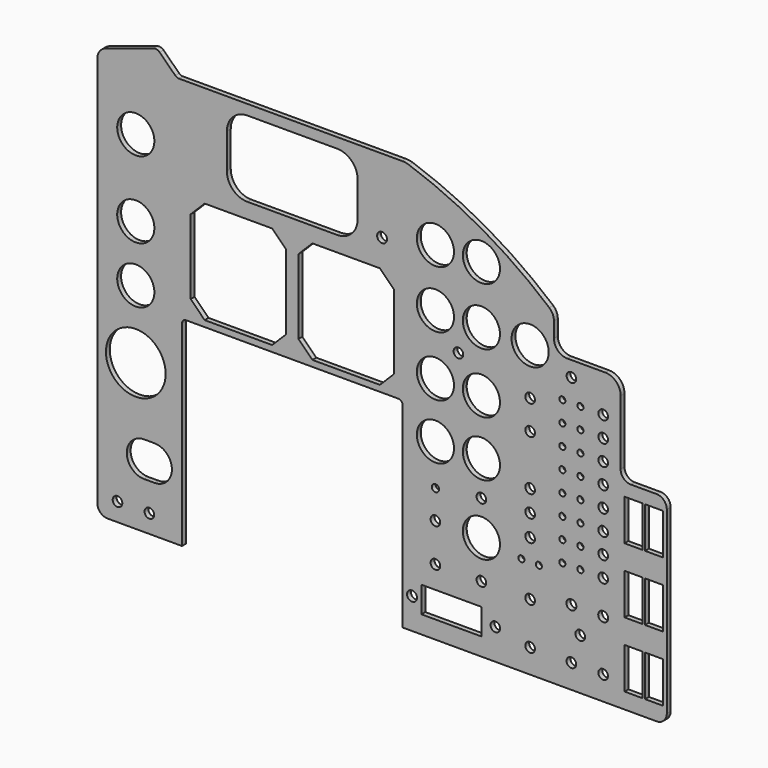
from build123d import *

# Parameters (mm, degrees)
F0_R     = 5.953125
F0_R_2   = 36.957
F0_R_3   = 22.987
F0_R_4   = 6.151563
F0_W     = 74.168
F0_H     = 32.258
F0_R_5   = 3.770313
F0_W_2   = 22.352
F0_H_2   = 50.8
F0_R_6   = 4.5
F1_DEPTH = 6


with BuildPart() as f1:
    # F0 (on Front) → F1 (new body)
    with BuildSketch(Plane.XZ):
        with BuildLine():
            ThreePointArc((-253.75755, -118.935383), (-250.037806, -127.915639), (-241.05755, -131.635383))
            Line((-241.05755, -131.635383), (-148.98255, -131.635383))
            Line((-148.98255, -131.635383), (-148.98255, 110.934617))
            ThreePointArc((-148.98255, 110.934617), (-147.494653, 114.52672), (-143.90255, 116.014617))
            Line((-143.90255, 116.014617), (118.98745, 116.014617))
            ThreePointArc((118.98745, 116.014617), (122.579552, 114.52672), (124.06745, 110.934617))
            Line((124.06745, 110.934617), (124.06745, -131.635383))
            Line((124.06745, -131.635383), (311.39245, -131.635383))
            Line((311.39245, -131.635383), (438.39245, -131.635383))
            ThreePointArc((438.39245, -131.635383), (447.372706, -127.915639), (451.09245, -118.935383))
            Line((451.09245, -118.935383), (451.09245, 103.314617))
            ThreePointArc((451.09245, 103.314617), (447.372706, 112.294873), (438.39245, 116.014617))
            Line((438.39245, 116.014617), (406.64245, 116.014617))
            ThreePointArc((406.64245, 116.014617), (397.662194, 119.734361), (393.94245, 128.714617))
            Line((393.94245, 128.714617), (393.94245, 208.724617))
            ThreePointArc((393.94245, 208.724617), (388.362834, 222.195001), (374.89245, 227.774617))
            Line((374.89245, 227.774617), (327.90245, 227.774617))
            ThreePointArc((327.90245, 227.774617), (316.228117, 232.610284), (311.39245, 244.284617))
            Line((311.39245, 244.284617), (311.39245, 255.714617))
            Line((311.39245, 255.714617), (-253.75755, 255.714617))
            Line((-253.75755, 255.714617), (-253.75755, -118.935383))
        make_face()
        with Locations((-228.73855, -109.029383)):
            Circle(F0_R, mode=Mode.SUBTRACT)
        with Locations((-189.36855, -109.029383)):
            Circle(F0_R, mode=Mode.SUBTRACT)
        with BuildLine():
            Line((-195.71855, -30.709753), (-183.01855, -30.709753))
            ThreePointArc((-183.01855, -30.709753), (-161.42855, -52.299753), (-183.01855, -73.889753))
            Line((-183.01855, -73.889753), (-195.71855, -73.889753))
            ThreePointArc((-195.71855, -73.889753), (-217.30855, -52.299753), (-195.71855, -30.709753))
        make_face(mode=Mode.SUBTRACT)
        with Locations((-206.13255, 49.339617)):
            Circle(F0_R_2, mode=Mode.SUBTRACT)
        with Locations((-206.13255, 133.667617)):
            Circle(F0_R_3, mode=Mode.SUBTRACT)
        with Locations((135.75145, -93.535383)):
            Circle(F0_R_4, mode=Mode.SUBTRACT)
        with Locations((184.51945, -93.535383)):
            Rectangle(F0_W, F0_H, mode=Mode.SUBTRACT)
        with Locations((238.87545, -93.535383)):
            Circle(F0_R, mode=Mode.SUBTRACT)
        with Locations((164.70745, -49.593383)):
            Circle(F0_R, mode=Mode.SUBTRACT)
        with Locations((164.70745, -2.095383)):
            Circle(F0_R, mode=Mode.SUBTRACT)
        with Locations((221.60345, -49.593383)):
            Circle(F0_R, mode=Mode.SUBTRACT)
        with Locations((221.60345, -2.095383)):
            Circle(F0_R_3, mode=Mode.SUBTRACT)
        with Locations((271.13345, -8.953383)):
            Circle(F0_R_5, mode=Mode.SUBTRACT)
        with Locations((281.92845, -101.917383)):
            Circle(F0_R, mode=Mode.SUBTRACT)
        with Locations((332.98245, -101.917383)):
            Circle(F0_R, mode=Mode.SUBTRACT)
        with Locations((343.90445, -68.643383)):
            Circle(F0_R, mode=Mode.SUBTRACT)
        with Locations((372.35245, -101.917383)):
            Circle(F0_R, mode=Mode.SUBTRACT)
        with Locations((409.94445, -86.677383)):
            Rectangle(F0_W_2, F0_H_2, mode=Mode.SUBTRACT)
        with Locations((435.34445, -86.677383)):
            Rectangle(F0_W_2, F0_H_2, mode=Mode.SUBTRACT)
        with Locations((281.92845, -49.593383)):
            Circle(F0_R, mode=Mode.SUBTRACT)
        with Locations((332.98245, -38.925383)):
            Circle(F0_R_4, mode=Mode.SUBTRACT)
        with Locations((292.72345, -8.953383)):
            Circle(F0_R_5, mode=Mode.SUBTRACT)
        with Locations((372.35245, -38.925383)):
            Circle(F0_R_4, mode=Mode.SUBTRACT)
        with Locations((409.94445, -5.905383)):
            Rectangle(F0_W_2, F0_H_2, mode=Mode.SUBTRACT)
        with Locations((435.34445, -5.905383)):
            Rectangle(F0_W_2, F0_H_2, mode=Mode.SUBTRACT)
        with Locations((164.70745, 33.464617)):
            Circle(F0_R_6, mode=Mode.SUBTRACT)
        with Locations((221.60345, 41.084617)):
            Circle(F0_R, mode=Mode.SUBTRACT)
        with Locations((164.70745, 84.264617)):
            Circle(F0_R_3, mode=Mode.SUBTRACT)
        with Locations((221.60345, 84.264617)):
            Circle(F0_R_3, mode=Mode.SUBTRACT)
        with Locations((281.92845, 17.716617)):
            Circle(F0_R, mode=Mode.SUBTRACT)
        with Locations((321.80645, 2.984617)):
            Circle(F0_R_5, mode=Mode.SUBTRACT)
        with Locations((344.15845, 2.984617)):
            Circle(F0_R_5, mode=Mode.SUBTRACT)
        with Locations((321.80645, 28.384617)):
            Circle(F0_R_5, mode=Mode.SUBTRACT)
        with Locations((344.15845, 28.384617)):
            Circle(F0_R_5, mode=Mode.SUBTRACT)
        with Locations((281.92845, 44.386617)):
            Circle(F0_R, mode=Mode.SUBTRACT)
        with Locations((321.80645, 53.784617)):
            Circle(F0_R_5, mode=Mode.SUBTRACT)
        with Locations((344.15845, 53.784617)):
            Circle(F0_R_5, mode=Mode.SUBTRACT)
        with Locations((372.35245, 2.984617)):
            Circle(F0_R, mode=Mode.SUBTRACT)
        with Locations((372.35245, 28.384617)):
            Circle(F0_R, mode=Mode.SUBTRACT)
        with Locations((372.35245, 53.784617)):
            Circle(F0_R, mode=Mode.SUBTRACT)
        with Locations((281.92845, 71.056617)):
            Circle(F0_R, mode=Mode.SUBTRACT)
        with Locations((321.80645, 79.184617)):
            Circle(F0_R_5, mode=Mode.SUBTRACT)
        with Locations((344.15845, 79.184617)):
            Circle(F0_R_5, mode=Mode.SUBTRACT)
        with Locations((281.92845, 133.286617)):
            Circle(F0_R, mode=Mode.SUBTRACT)
        with Locations((321.80645, 104.584617)):
            Circle(F0_R_5, mode=Mode.SUBTRACT)
        with Locations((344.15845, 104.584617)):
            Circle(F0_R_5, mode=Mode.SUBTRACT)
        with Locations((321.80645, 129.984617)):
            Circle(F0_R_5, mode=Mode.SUBTRACT)
        with Locations((344.15845, 129.984617)):
            Circle(F0_R_5, mode=Mode.SUBTRACT)
        with Locations((372.35245, 79.184617)):
            Circle(F0_R, mode=Mode.SUBTRACT)
        with Locations((409.94445, 74.866617)):
            Rectangle(F0_W_2, F0_H_2, mode=Mode.SUBTRACT)
        with Locations((435.34445, 74.866617)):
            Rectangle(F0_W_2, F0_H_2, mode=Mode.SUBTRACT)
        with Locations((372.35245, 104.584617)):
            Circle(F0_R, mode=Mode.SUBTRACT)
        with Locations((372.35245, 129.984617)):
            Circle(F0_R, mode=Mode.SUBTRACT)
        Polygon((-37.34955, 123.634617), (-120.91555, 123.634617), (-138.18755, 140.906617), (-138.18755, 233.362617), (-120.91555, 250.634617), (-37.34955, 250.634617), (-20.07755, 233.362617), (-20.07755, 140.906617), align=None, mode=Mode.SUBTRACT)
        with Locations((-206.13255, 203.517617)):
            Circle(F0_R_3, mode=Mode.SUBTRACT)
        Polygon((96.00045, 123.634617), (12.43445, 123.634617), (-4.83755, 140.906617), (-4.83755, 233.362617), (12.43445, 250.634617), (96.00045, 250.634617), (113.27245, 233.362617), (113.27245, 140.906617), align=None, mode=Mode.SUBTRACT)
        with Locations((164.70745, 152.844617)):
            Circle(F0_R_3, mode=Mode.SUBTRACT)
        with Locations((221.60345, 152.844617)):
            Circle(F0_R_3, mode=Mode.SUBTRACT)
        with Locations((193.15545, 189.992117)):
            Circle(F0_R, mode=Mode.SUBTRACT)
        with Locations((164.70745, 227.139617)):
            Circle(F0_R_3, mode=Mode.SUBTRACT)
        with Locations((221.60345, 227.139617)):
            Circle(F0_R_3, mode=Mode.SUBTRACT)
        with Locations((321.80645, 155.384617)):
            Circle(F0_R_5, mode=Mode.SUBTRACT)
        with Locations((344.15845, 155.384617)):
            Circle(F0_R_5, mode=Mode.SUBTRACT)
        with Locations((281.92845, 169.608617)):
            Circle(F0_R, mode=Mode.SUBTRACT)
        with Locations((321.80645, 180.784617)):
            Circle(F0_R_5, mode=Mode.SUBTRACT)
        with Locations((344.15845, 180.784617)):
            Circle(F0_R_5, mode=Mode.SUBTRACT)
        with Locations((372.35245, 155.384617)):
            Circle(F0_R, mode=Mode.SUBTRACT)
        with Locations((372.35245, 180.784617)):
            Circle(F0_R, mode=Mode.SUBTRACT)
        with Locations((281.92845, 227.139617)):
            Circle(F0_R_3, mode=Mode.SUBTRACT)
        with Locations((332.98245, 208.724617)):
            Circle(F0_R, mode=Mode.SUBTRACT)
        with BuildLine():
            Line((-253.75755, 365.389408), (-253.75755, 255.714617))
            Line((-253.75755, 255.714617), (311.39245, 255.714617))
            Line((311.39245, 255.714617), (311.39245, 263.41733))
            ThreePointArc((311.39245, 263.41733), (309.87647, 270.328153), (305.60693, 275.969845))
            ThreePointArc((305.60693, 275.969845), (223.453386, 333.728569), (131.931956, 375.069867))
            ThreePointArc((131.931956, 375.069867), (127.872963, 376.095583), (123.700617, 376.440613))
            Line((123.700617, 376.440613), (117.71745, 376.440613))
            Line((117.71745, 376.440613), (-152.739647, 376.440613))
            ThreePointArc((-152.739647, 376.440613), (-155.140139, 376.911826), (-157.184366, 378.25553))
            Line((-157.184366, 378.25553), (-176.648942, 397.332261))
            ThreePointArc((-176.648942, 397.332261), (-180.247844, 399.310068), (-184.350579, 399.132889))
            Line((-184.350579, 399.132889), (-243.2535, 379.874862))
            ThreePointArc((-243.2535, 379.874862), (-250.855165, 374.335964), (-253.75755, 365.389408))
        make_face()
        with Locations((-206.13255, 298.386617)):
            Circle(F0_R_3, mode=Mode.SUBTRACT)
        with BuildLine():
            ThreePointArc((-93.42005, 338.340613), (-85.980562, 356.301125), (-68.02005, 363.740613))
            Line((-68.02005, 363.740613), (43.10495, 363.740613))
            ThreePointArc((43.10495, 363.740613), (61.065462, 356.301125), (68.50495, 338.340613))
            Line((68.50495, 338.340613), (68.50495, 295.160613))
            ThreePointArc((68.50495, 295.160613), (61.065462, 277.200101), (43.10495, 269.760613))
            Line((43.10495, 269.760613), (-68.02005, 269.760613))
            ThreePointArc((-68.02005, 269.760613), (-85.980562, 277.200101), (-93.42005, 295.160613))
            Line((-93.42005, 295.160613), (-93.42005, 338.340613))
        make_face(mode=Mode.SUBTRACT)
        with Locations((98.66745, 285.000613)):
            Circle(F0_R_4, mode=Mode.SUBTRACT)
        with Locations((164.70745, 298.386617)):
            Circle(F0_R_3, mode=Mode.SUBTRACT)
        with Locations((221.60345, 298.386617)):
            Circle(F0_R_3, mode=Mode.SUBTRACT)
    extrude(amount=F1_DEPTH)


solid = f1.part
